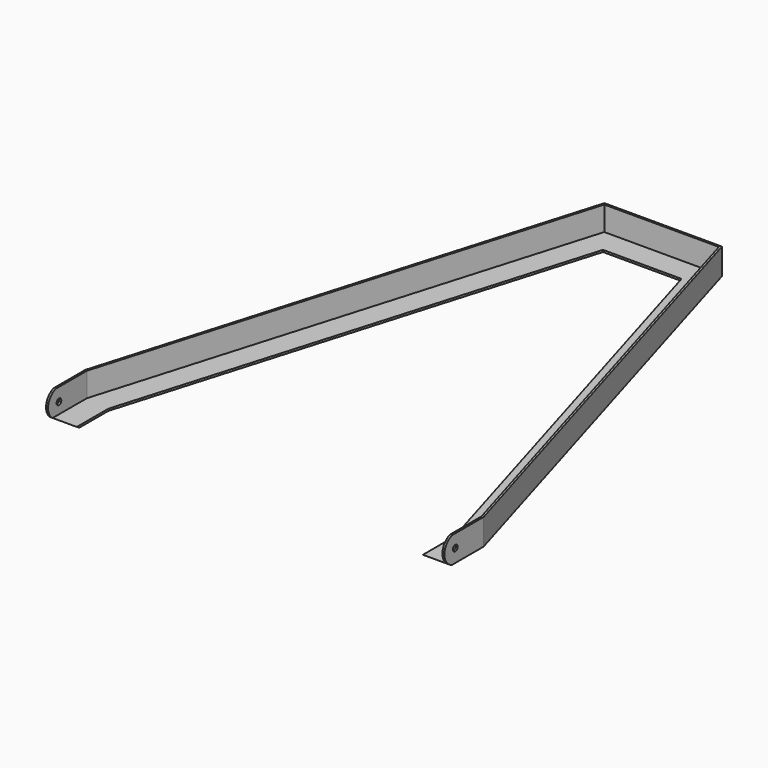
from build123d import *

# Parameters (mm, degrees)
F4_DEPTH      = 305.001
F4_DEPTH_BACK = 305.001
F6_D          = 9
F6_DEPTH      = 305.001
F8_D          = 9


with BuildPart() as f2:
    # F2: sweep along a path in F0
    with BuildLine(Plane.XY) as f2_path:
        Line((305, 0), (305, 75))
        Line((305, 75), (90, 800))
        Line((90, 800), (0, 800))
        Line((0, 800), (-90, 800))
        Line((-90, 800), (-305, 75))
        Line((-305, 75), (-305, 0))
    # F1 (on Front) → F2 (sweep)
    with BuildSketch(Plane.XZ):
        Polygon((265, 0), (305, 0), (305, 40), (302, 40), (302, 3), (265, 3), align=None)
    sweep(path=f2_path.line, transition=Transition.RIGHT)

    # F3 (on Right) → F4 (cut, two sides)
    with BuildSketch(Plane.YZ) as f4_sk:
        with BuildLine():
            ThreePointArc((15, 0), (4.1666666667, 7.5), (0, 20))
            Line((0, 20), (0, 0))
            Line((0, 0), (15, 0))
        make_face()
        with BuildLine():
            ThreePointArc((0, 20), (4.1666666667, 32.5), (15, 40))
            Line((15, 40), (0, 40))
            Line((0, 40), (0, 20))
        make_face()
    extrude(amount=-F4_DEPTH, mode=Mode.SUBTRACT)
    extrude(f4_sk.sketch, amount=F4_DEPTH_BACK, mode=Mode.SUBTRACT)

    # F6 (through all, one way)
    with BuildSketch(Plane.YZ):
        with Locations((20.8333333333, 20)):
            Circle(F6_D / 2)
    extrude(amount=-F6_DEPTH, mode=Mode.SUBTRACT)

    # F8 (through all)
    with Locations(Plane(origin=(0, 0, 0), x_dir=(0, 1, 0), z_dir=(-1, 0, 0))):
        with Locations((20.8333333333, -20)):
            Hole(F8_D / 2)


solid = f2.part
